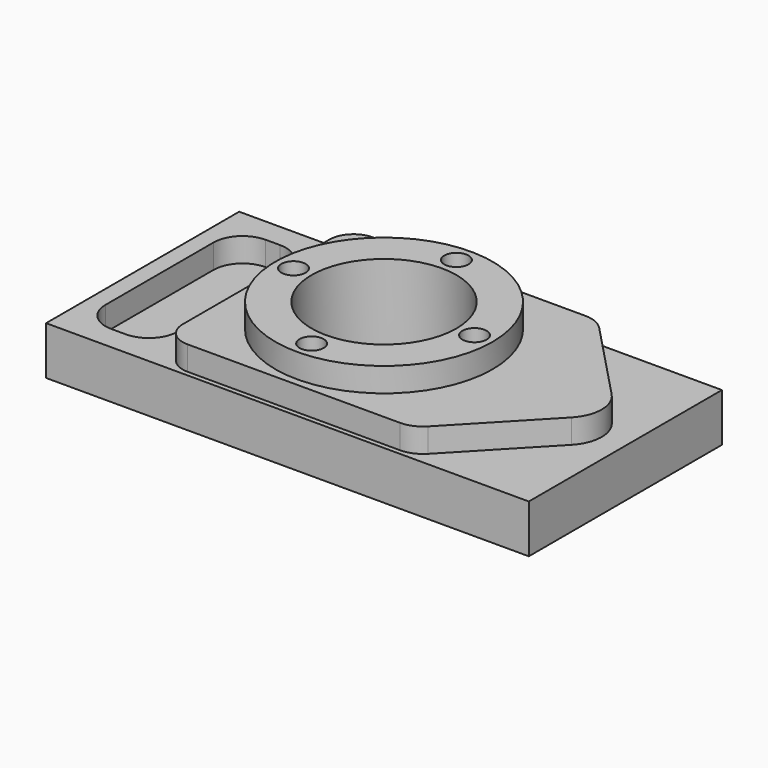
from build123d import *

# Parameters (mm, degrees)
F0_W      = 200
F0_H      = 100
F1_DEPTH  = 20
F3_DEPTH  = 10
F5_DEPTH  = 10
F6_R      = 45
F7_DEPTH  = 10
F8_R      = 30
F9_DEPTH  = 32
F11_D     = 10
F11_DEPTH = 15
F11_TIP   = 3.0043030951


with BuildPart() as f1:
    # F0 (on Top) → F1 (new body)
    with BuildSketch(Plane.XY):
        Rectangle(F0_W, F0_H)
    extrude(amount=F1_DEPTH)

    # F2 (on face) → F3 (cut)
    with BuildSketch(Plane.XY.offset(20)):
        with BuildLine():
            Line((-75, 40), (-81, 40))
            ThreePointArc((-81, 40), (-89.4852813742, 36.4852813742), (-93, 28))
            Line((-93, 28), (-93, -28))
            ThreePointArc((-93, -28), (-89.4852813742, -36.4852813742), (-81, -40))
            Line((-81, -40), (-75, -40))
            ThreePointArc((-75, -40), (-66.5147186258, -36.4852813742), (-63, -28))
            Line((-63, -28), (-63, 28))
            ThreePointArc((-63, 28), (-66.5147186258, 36.4852813742), (-75, 40))
        make_face()
    extrude(amount=-F3_DEPTH, mode=Mode.SUBTRACT)

    # F4 (on face) → F5 (join)
    with BuildSketch(Plane.XY.offset(20)):
        with BuildLine():
            Line((45.028, 48), (-43, 48))
            ThreePointArc((-43, 48), (-50.0710678119, 45.0710678119), (-53, 38))
            Line((-53, 38), (-53, -38))
            ThreePointArc((-53, -38), (-50.0710678119, -45.0710678119), (-43, -48))
            Line((-43, -48), (45.028, -48))
            ThreePointArc((45.028, -48), (49.7542524478, -47.0300742427), (53.7164858981, -44.2770896333))
            Line((53.7164858981, -44.2770896333), (86.0406073726, -10.3463620417))
            ThreePointArc((86.0406073726, -10.3463620417), (90.18, 0), (86.0406073726, 10.3463620417))
            Line((86.0406073726, 10.3463620417), (53.7164858981, 44.2770896333))
            ThreePointArc((53.7164858981, 44.2770896333), (49.7542524478, 47.0300742427), (45.028, 48))
        make_face()
    extrude(amount=F5_DEPTH)

    # F6 (on face) → F7 (join)
    with BuildSketch(Plane.XY.offset(30)):
        Circle(F6_R)
    extrude(amount=F7_DEPTH)

    # F8 (on face) → F9 (cut)
    with BuildSketch(Plane.XY.offset(40)):
        Circle(F8_R)
    extrude(amount=-F9_DEPTH, mode=Mode.SUBTRACT)

    # F11
    with Locations(Plane.XY.offset(40)):
        with Locations((-37.5, 0), (0, 37.5), (37.5, 0), (0, -37.5)):
            Hole(F11_D / 2, depth=F11_DEPTH)
            with Locations((0, 0, -(F11_DEPTH + F11_TIP / 2))):  # 118° drill point
                Cone(0, F11_D / 2, F11_TIP, mode=Mode.SUBTRACT)


solid = f1.part
